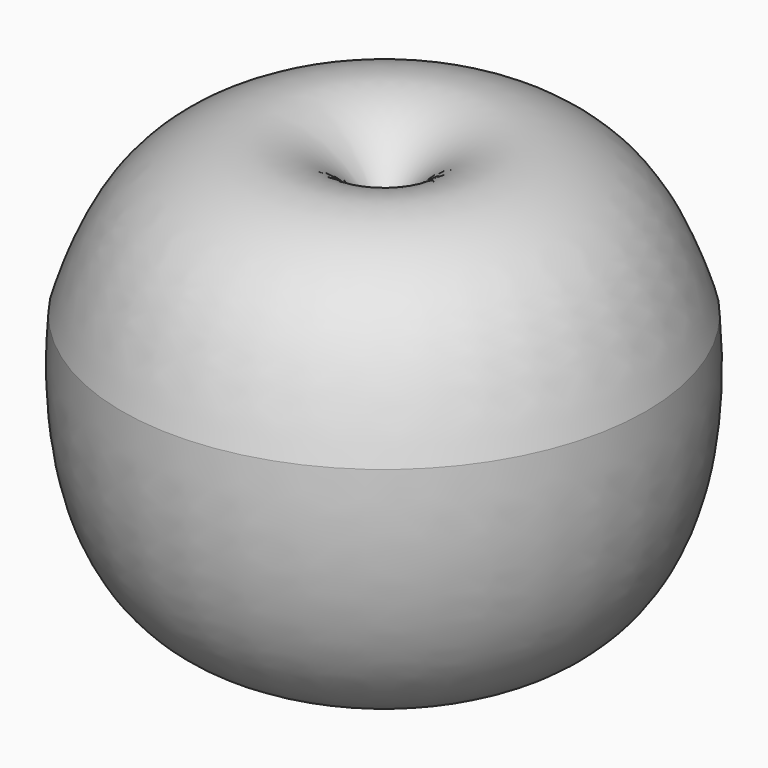
from build123d import *


with BuildPart() as f1:
    # F0 (on Front) → F1 (revolve)
    with BuildSketch(Plane.XZ):
        with BuildLine():
            add(Edge.make_bspline(
                [(-24.3468284607, 27.0417090505), (-22.9570211456, 31.3846808231), (-19.9983965423, 38.3437678045), (-8.1599178351, 43.4955986428), (-2.0975030092, 38.2273184232), (0, 33.9182913303)],
                knots=[0, 0, 0, 0, 0.3436824068, 0.6648111579, 1, 1, 1, 1], degree=3))
            add(Edge.make_bspline(
                [(-24.3468284607, 27.0417090505), (-25.3135258298, 14.4746635976), (-19.2241021971, 0.3937318513), (-6.1556956995, 0.9579407687), (0, 0)],
                knots=[0, 0, 0, 0, 0.5481374173, 1, 1, 1, 1], degree=3))
            Line((0, 0), (0, 33.9182913303))
        make_face()
    revolve(axis=Axis((0, 0, 11.2441461533), (0, 0, -1)))


solid = f1.part
